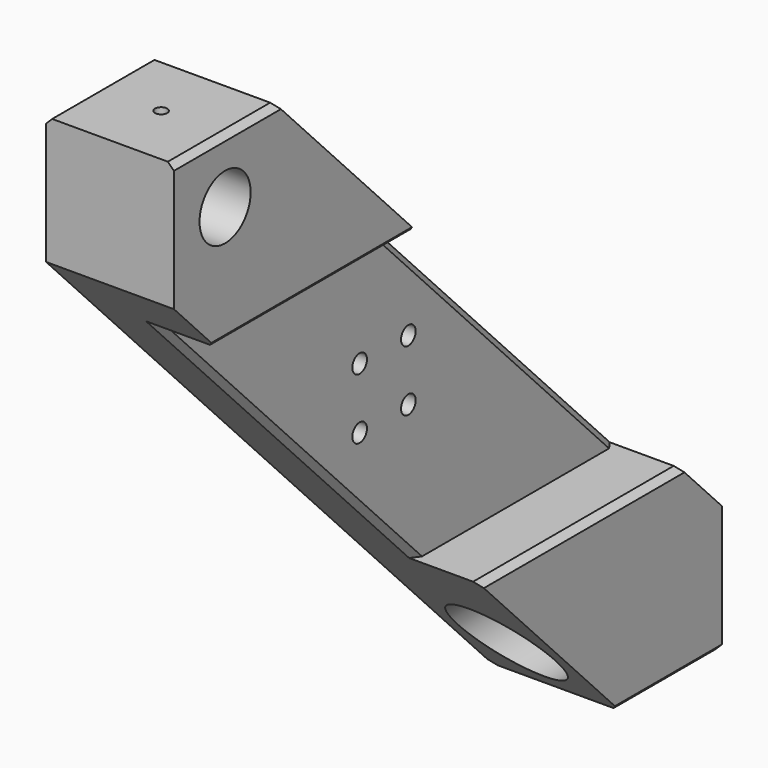
from build123d import *

# Parameters (mm, degrees)
F0_R      = 3
F0_R_2    = 10.5
F1_DEPTH  = 42
F2_R      = 3
F3_DEPTH  = 21
F4_R      = 16
F5_DEPTH  = 85
F6_SIZE   = 2
F7_R      = 2
F8_DEPTH  = 25
F9_R      = 2
F10_DEPTH = 25


with BuildPart() as f1:
    # F0 (on Right) → F1 (new body)
    with BuildSketch(Plane.YZ):
        Polygon((70.5, -116.2), (112.5, -116.2), (112.5, -74.2), (-70.5, 116.2), (-112.5, 116.2), (-112.5, 74.2), align=None)
        with Locations((-10, -10)):
            Circle(F0_R, mode=Mode.SUBTRACT)
        with Locations((10, -10)):
            Circle(F0_R, mode=Mode.SUBTRACT)
        with Locations((-10, 10)):
            Circle(F0_R, mode=Mode.SUBTRACT)
        with Locations((-91.5, 95.2)):
            Circle(F0_R_2, mode=Mode.SUBTRACT)
        with Locations((10, 10)):
            Circle(F0_R, mode=Mode.SUBTRACT)
    extrude(amount=F1_DEPTH)

    # F2 (on face) → F3 (cut)
    with BuildSketch(Plane.YZ.offset(42)):
        Polygon((12.831933, -56.2), (95.19958, -56.2), (-12.831933, 56.2), (-95.19958, 56.2), align=None)
        with Locations((-10, -10)):
            Circle(F2_R, mode=Mode.SUBTRACT)
        with Locations((10, -10)):
            Circle(F2_R, mode=Mode.SUBTRACT)
        with Locations((-10, 10)):
            Circle(F2_R, mode=Mode.SUBTRACT)
        with Locations((10, 10)):
            Circle(F2_R, mode=Mode.SUBTRACT)
    extrude(amount=-F3_DEPTH, mode=Mode.SUBTRACT)

    # F4 (on face) → F5 (cut)
    with BuildSketch(Plane(origin=(0, 112.5, 0), x_dir=(-1, 0, 0), z_dir=(0, 1, 0))):
        with Locations((-21, -95.2)):
            Circle(F4_R)
    extrude(amount=-F5_DEPTH, mode=Mode.SUBTRACT)

    # F6
    f6_edges = [f1.edges().sort_by_distance(p)[0] for p in [
        (21, 41.183824, 0),
        (21, -41.183824, 0),
        (42, -54.015756, 56.2),
        (0, -91.5, 116.2),
        (0, 91.5, -116.2),
        (42, 54.015756, -56.2),
        (42, 91.5, -116.2),
        (42, -91.5, 116.2),
    ]]
    chamfer(f6_edges, length=F6_SIZE)

    # F7 (on face) → F8 (cut)
    with BuildSketch(Plane.XY.offset(116.2)):
        with Locations((21, -91.5)):
            Circle(F7_R)
    extrude(amount=-F8_DEPTH, mode=Mode.SUBTRACT)

    # F9 (on face) → F10 (cut)
    with BuildSketch(Plane(origin=(0, 0, -116.2), x_dir=(1, 0, 0), z_dir=(0, 0, -1))):
        with Locations((21, -91.5)):
            Circle(F9_R)
    extrude(amount=-F10_DEPTH, mode=Mode.SUBTRACT)


solid = f1.part
